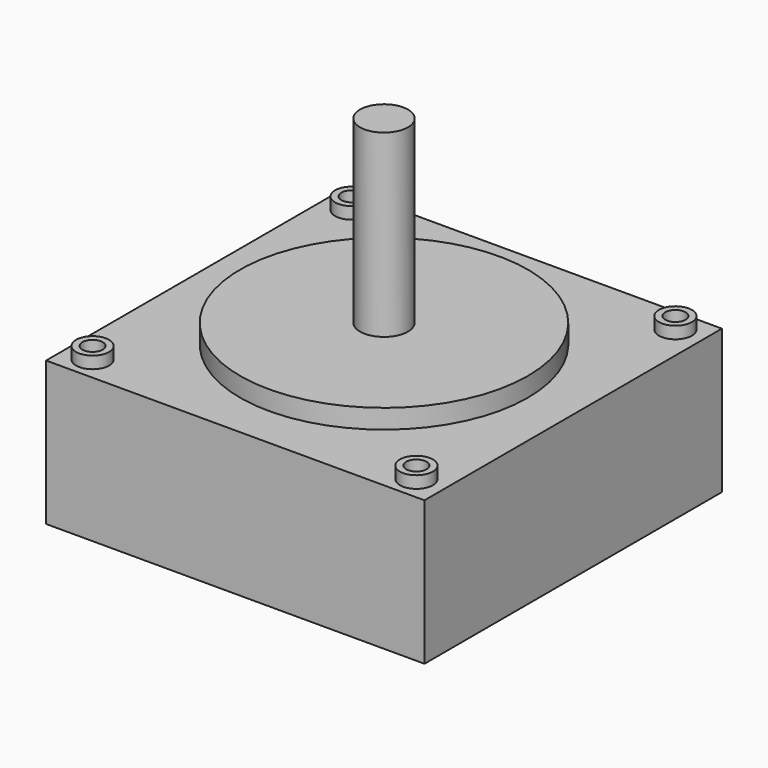
from build123d import *

# Parameters (mm, degrees)
SKETCH_W     = 63.1
SKETCH_H     = 62
PAD_DEPTH    = 24
SKETCH001_R  = 24
PAD001_DEPTH = 3.2
SKETCH002_R  = 4
PAD002_DEPTH = 30
SKETCH003_R  = 2.75
PAD003_DEPTH = 2
SKETCH004_R  = 1.7
HOLE_DEPTH   = 26.001


with BuildPart() as part:
    # Sketch → Pad (new body)
    with BuildSketch(Plane.XY):
        Rectangle(SKETCH_W, SKETCH_H)
    extrude(amount=-PAD_DEPTH)

    # Sketch001 (on Face5 of Pad) → Pad001 (join)
    with BuildSketch(Plane.XY):
        Circle(SKETCH001_R)
    extrude(amount=PAD001_DEPTH)

    # Sketch002 (on Face8 of Pad001) → Pad002 (join)
    with BuildSketch(Plane.XY.offset(3.2)):
        Circle(SKETCH002_R)
    extrude(amount=PAD002_DEPTH)

    # Sketch003 (on Face4 of Pad002) → Pad003 (join)
    with BuildSketch(Plane.XY):
        with Locations((-27, 27)):
            Circle(SKETCH003_R)
        with Locations((27, 27)):
            Circle(SKETCH003_R)
        with Locations((-27, -27)):
            Circle(SKETCH003_R)
        with Locations((27, -27)):
            Circle(SKETCH003_R)
    extrude(amount=PAD003_DEPTH)

    # Sketch004 (on Face13 of Pad003) → Hole (cut, through all)
    with BuildSketch(Plane.XY.offset(2)):
        with Locations((-27, 27)):
            Circle(SKETCH004_R)
        with Locations((27, 27)):
            Circle(SKETCH004_R)
        with Locations((27, -27)):
            Circle(SKETCH004_R)
        with Locations((-27, -27)):
            Circle(SKETCH004_R)
    extrude(amount=-HOLE_DEPTH, mode=Mode.SUBTRACT)


solid = part.part
